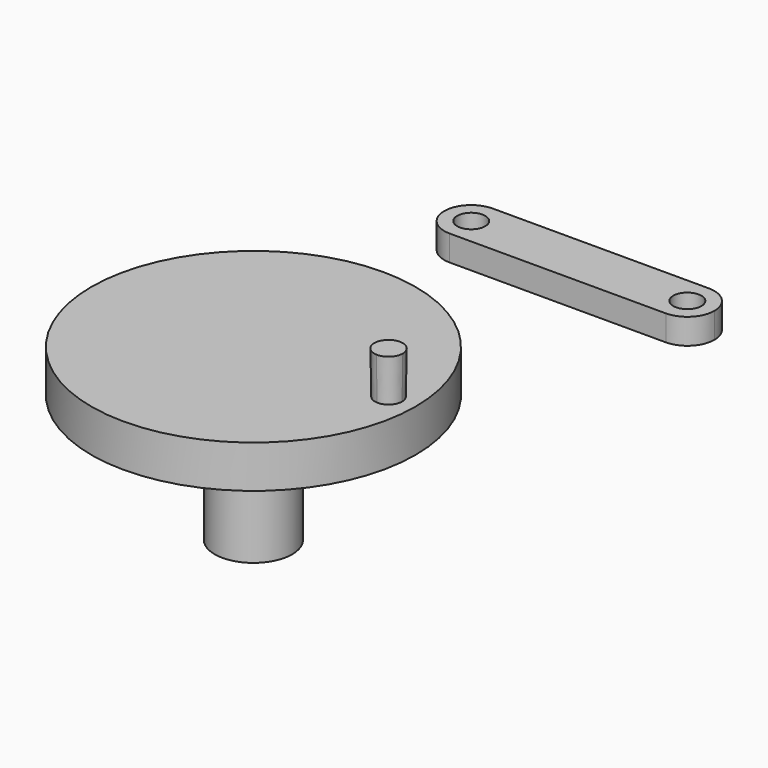
from build123d import *

# Parameters (mm, degrees)
F1_DEPTH = 5
F0_R     = 19.05
F0_R_2   = 4.55
F2_DEPTH = 20
F4_DEPTH = 5
F4_TAPER = -1
F0_R_3   = 1.651
F5_DEPTH = 3


with BuildPart() as f1:
    # F0 (on Top) → F1 (new body)
    with BuildSketch(Plane.XY):
        with BuildLine():
            Line((2.15, -1.3711309201), (2.15, 1.3711309201))
            ThreePointArc((2.15, 1.3711309201), (-2.55, 0), (2.15, -1.3711309201))
        make_face()
    extrude(amount=-F1_DEPTH)



with BuildPart() as f1b:
    # F0 (on Top) → F1, piece 2 (new body)
    with BuildSketch(Plane.XY):
        Circle(F0_R)
        Circle(F0_R_2, mode=Mode.SUBTRACT)
    extrude(amount=-F1_DEPTH)


with BuildPart() as f1_1:
    add(f1.part)

    add(f1b.part)  # F2 merges F1b
    # F0 (on Top) → F2 (join)
    with BuildSketch(Plane.XY):
        Circle(F0_R_2)
        with BuildLine():
            ThreePointArc((2.15, -1.3711309201), (-2.55, 0), (2.15, 1.3711309201))
            Line((2.15, 1.3711309201), (2.15, -1.3711309201))
        make_face(mode=Mode.SUBTRACT)
    extrude(amount=-F2_DEPTH)

    # F3 (on face) → F4 (join)
    with BuildSketch(Plane.XY):
        with BuildLine():
            ThreePointArc((15.795625, -1.5855143832), (15.8551438321, -0.79375), (15.875, 0))
            ThreePointArc((15.875, 0), (15.8551438321, 0.79375), (15.795625, 1.5855143832))
            ThreePointArc((15.795625, 1.5855143832), (14.2875, 0), (15.795625, -1.5855143832))
        make_face()
        with BuildLine():
            ThreePointArc((15.795625, 1.5855143832), (15.8551438321, 0.79375), (15.875, 0))
            ThreePointArc((15.875, 0), (15.8551438321, -0.79375), (15.795625, -1.5855143832))
            ThreePointArc((15.795625, -1.5855143832), (16.9691088697, -1.1502530292), (17.4625, 0))
            ThreePointArc((17.4625, 0), (16.9691088697, 1.1502530292), (15.795625, 1.5855143832))
        make_face()
    extrude(amount=F4_DEPTH, taper=F4_TAPER)


with BuildPart() as f5:
    # F0 (on Top) → F5 (new body)
    with BuildSketch(Plane.XY):
        with BuildLine():
            ThreePointArc((0, 28.8188606562), (2.2450640303, 29.7487966259), (3.175, 31.9938606562))
            ThreePointArc((3.175, 31.9938606562), (2.2450640303, 34.2389246864), (0, 35.1688606562))
            ThreePointArc((0, 35.1688606562), (-3.175, 31.9938606562), (0, 28.8188606562))
        make_face()
        with Locations((0, 31.9938606562)):
            Circle(F0_R_3, mode=Mode.SUBTRACT)
        with BuildLine():
            Line((22.225, 31.9938606562), (3.175, 31.9938606562))
            ThreePointArc((3.175, 31.9938606562), (2.2450640303, 29.7487966259), (0, 28.8188606562))
            Line((0, 28.8188606562), (25.4, 28.8188606562))
            ThreePointArc((25.4, 28.8188606562), (23.1549359697, 29.7487966259), (22.225, 31.9938606562))
        make_face()
        with BuildLine():
            ThreePointArc((0, 35.1688606562), (2.2450640303, 34.2389246864), (3.175, 31.9938606562))
            Line((3.175, 31.9938606562), (22.225, 31.9938606562))
            ThreePointArc((22.225, 31.9938606562), (23.1549359697, 34.2389246864), (25.4, 35.1688606562))
            Line((25.4, 35.1688606562), (0, 35.1688606562))
        make_face()
        with BuildLine():
            ThreePointArc((25.4, 35.1688606562), (23.1549359697, 34.2389246864), (22.225, 31.9938606562))
            ThreePointArc((22.225, 31.9938606562), (23.1549359697, 29.7487966259), (25.4, 28.8188606562))
            ThreePointArc((25.4, 28.8188606562), (27.6450640303, 29.7487966259), (28.575, 31.9938606562))
            ThreePointArc((28.575, 31.9938606562), (27.6450640303, 34.2389246864), (25.4, 35.1688606562))
        make_face()
        with BuildLine():
            ThreePointArc((27.051, 31.9938606562), (25.4, 30.3428606562), (23.749, 31.9938606562))
            ThreePointArc((23.749, 31.9938606562), (25.4, 33.6448606562), (27.051, 31.9938606562))
        make_face(mode=Mode.SUBTRACT)
    extrude(amount=-F5_DEPTH)


solid = Compound([f1_1.part, f5.part])
